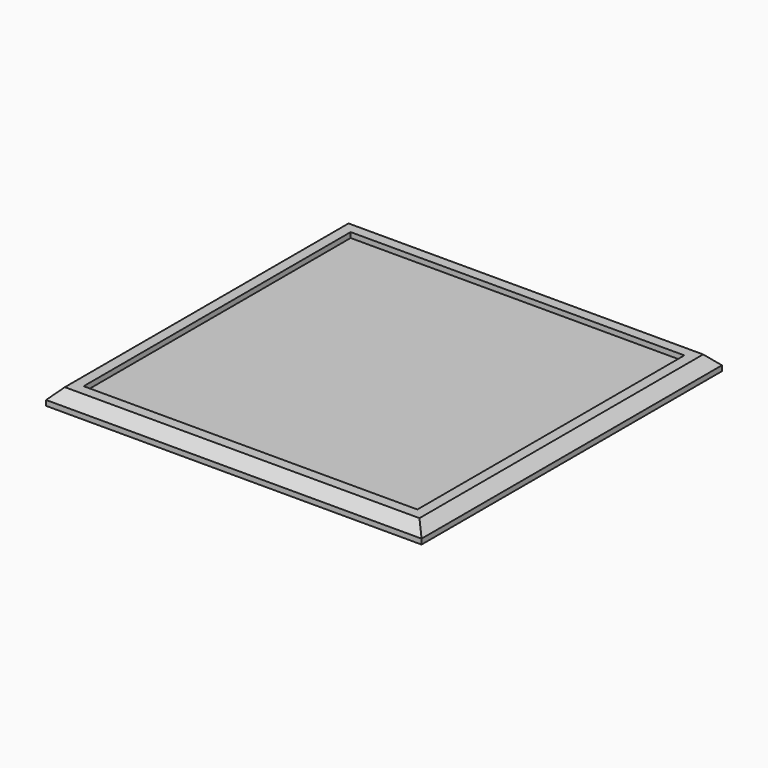
from build123d import *

# Parameters (mm, degrees)
F2_W     = 406.4
F2_H     = 406.4
F3_DEPTH = 12.7
F0_W     = 457.2328
F0_H     = 457.2
F0_W_2   = 406.4
F0_H_2   = 406.4
F4_DEPTH = 19.05
F1_SIZE  = 12.7


with BuildPart() as f3:
    # F2 (on Top) → F3 (new body)
    with BuildSketch(Plane.XY):
        Rectangle(F2_W, F2_H)
    extrude(amount=F3_DEPTH)


with BuildPart() as f4:
    # F0 (on face) → F4 (new body)
    with BuildSketch(Plane.XY):
        Rectangle(F0_W, F0_H)
        Rectangle(F0_W_2, F0_H_2, mode=Mode.SUBTRACT)
    extrude(amount=F4_DEPTH)

    # F1
    f1_edges = [f4.edges().sort_by_distance(p)[0] for p in [
        (0, -228.6, 19.05),
        (-228.6164, 0, 19.05),
        (228.6164, 0, 19.05),
        (0, 228.6, 19.05),
    ]]
    chamfer(f1_edges, length=F1_SIZE)


solid = Compound([f3.part, f4.part])
